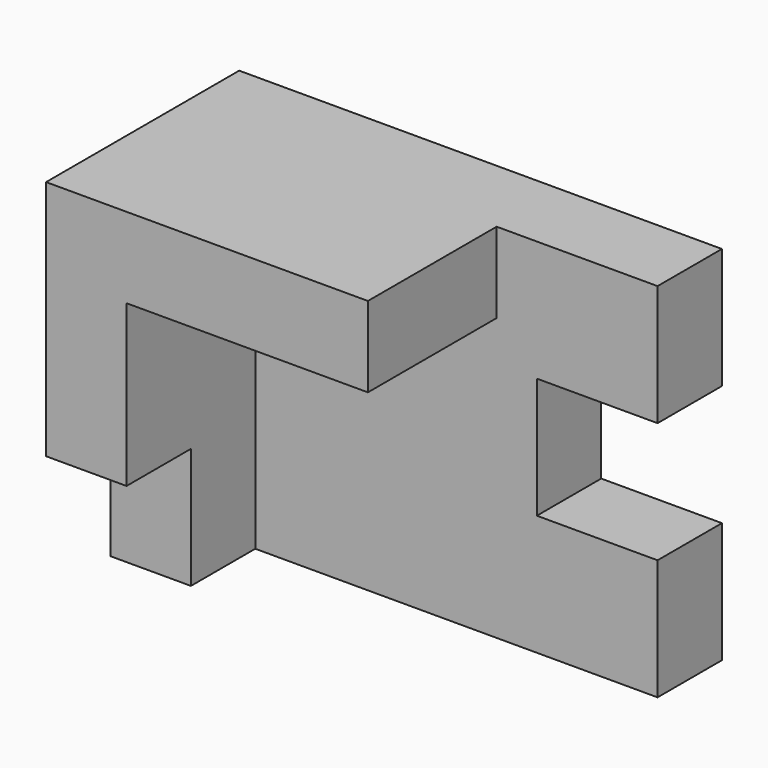
from build123d import *

# Parameters (mm, degrees)
F1_DEPTH = 30
F2_DEPTH = 10
F0_W     = 10
F0_H     = 15
F3_DEPTH = 20


with BuildPart() as f1:
    # F0 (on Front) → F1 (new body)
    with BuildSketch(Plane.XZ):
        Polygon((0, 45), (0, 15), (10, 15), (10, 35), (40, 35), (40, 45), align=None)
    extrude(amount=F1_DEPTH)

    # F0 (on Front) → F2 (join)
    with BuildSketch(Plane.XZ):
        Polygon((10, 15), (10, 0), (60, 0), (60, 15), (45, 15), (45, 30), (60, 30), (60, 45), (40, 45), (40, 35), (10, 35), align=None)
    extrude(amount=F2_DEPTH)

    # F0 (on Front) → F3 (join)
    with BuildSketch(Plane.XZ):
        with Locations((5, 7.5)):
            Rectangle(F0_W, F0_H)
    extrude(amount=F3_DEPTH)


solid = f1.part
